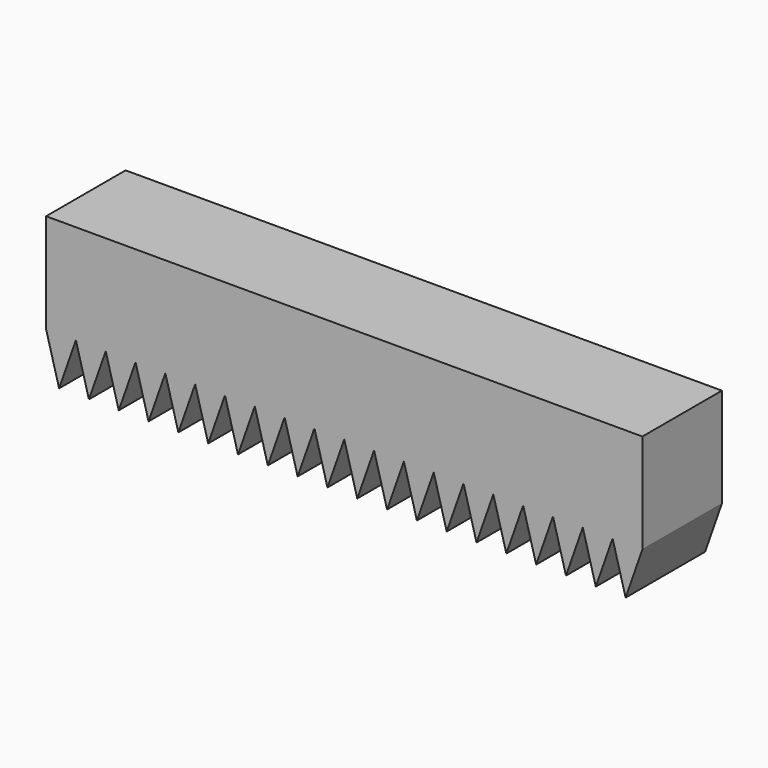
from build123d import *

# Parameters (mm, degrees)
F1_DEPTH = 12.7


with BuildPart() as f1:
    # F0 (on Front) → F1 (new body, symmetric)
    with BuildSketch(Plane.XZ):
        Polygon((71.90798, -27.474213), (76.2, -15.218009), (68.58, -15.218009), align=None)
        Polygon((64.28798, -27.474213), (68.58, -15.218009), (60.96, -15.218009), align=None)
        Polygon((56.66798, -27.474213), (60.96, -15.218009), (53.34, -15.218009), align=None)
        Polygon((49.04798, -27.474213), (53.34, -15.218009), (45.72, -15.218009), align=None)
        Polygon((41.42798, -27.474213), (45.72, -15.218009), (38.1, -15.218009), align=None)
        Polygon((33.80798, -27.474213), (38.1, -15.218009), (30.48, -15.218009), align=None)
        Polygon((26.18798, -27.474213), (30.48, -15.218009), (22.86, -15.218009), align=None)
        Polygon((18.56798, -27.474213), (22.86, -15.218009), (15.24, -15.218009), align=None)
        Polygon((10.94798, -27.474213), (15.24, -15.218009), (7.62, -15.218009), align=None)
        Polygon((3.32798, -27.474213), (7.62, -15.218009), (0, -15.218009), align=None)
        Polygon((0, -15.218009), (-7.62, -15.218009), (-4.29202, -27.474213), align=None)
        Polygon((-7.62, -15.218009), (-15.24, -15.218009), (-11.91202, -27.474213), align=None)
        Polygon((-15.24, -15.218009), (-22.86, -15.218009), (-19.53202, -27.474213), align=None)
        Polygon((-22.86, -15.218009), (-30.48, -15.218009), (-27.15202, -27.474213), align=None)
        Polygon((-30.48, -15.218009), (-38.1, -15.218009), (-34.77202, -27.474213), align=None)
        Polygon((-38.1, -15.218009), (-45.72, -15.218009), (-42.39202, -27.474213), align=None)
        Polygon((-45.72, -15.218009), (-53.34, -15.218009), (-50.01202, -27.474213), align=None)
        Polygon((-53.34, -15.218009), (-60.96, -15.218009), (-57.63202, -27.474213), align=None)
        Polygon((-60.96, -15.218009), (-68.58, -15.218009), (-65.25202, -27.474213), align=None)
        Polygon((-68.58, -15.218009), (-76.2, -15.218009), (-72.87202, -27.474213), align=None)
        Polygon((76.2, -15.218009), (76.2, 10.181991), (-76.2, 10.181991), (-76.2, -15.218009), (-68.58, -15.218009), (-60.96, -15.218009), (-53.34, -15.218009), (-45.72, -15.218009), (-38.1, -15.218009), (-30.48, -15.218009), (-22.86, -15.218009), (-15.24, -15.218009), (-7.62, -15.218009), (0, -15.218009), (7.62, -15.218009), (15.24, -15.218009), (22.86, -15.218009), (30.48, -15.218009), (38.1, -15.218009), (45.72, -15.218009), (53.34, -15.218009), (60.96, -15.218009), (68.58, -15.218009), align=None)
    extrude(amount=F1_DEPTH, both=True)


solid = f1.part
